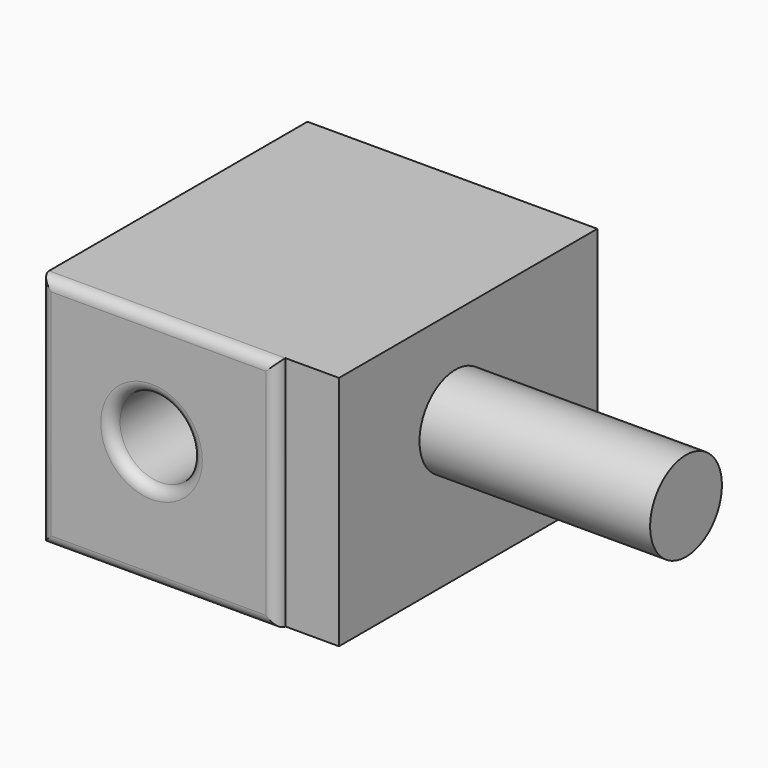
from build123d import *

# Parameters (mm, degrees)
F0_W     = 111.8744499981
F0_H     = 111.8744499981
F0_R     = 18.9654871471
F1_DEPTH = 157.988
F2_R     = 5.08
F3_DEPTH = 25.4
F4_R     = 21.242968454
F5_DEPTH = 109.22


with BuildPart() as f1:
    # F0 (on Front) → F1 (new body)
    with BuildSketch(Plane.XZ):
        with Locations((3.3725146204, -3.8376878947)):
            Rectangle(F0_W, F0_H)
        Circle(F0_R, mode=Mode.SUBTRACT)
    extrude(amount=F1_DEPTH)

    # F2
    f2_edges = [f1.edges().sort_by_distance(p)[0] for p in [
        (3.372515, -157.988, 52.099537),
        (-52.56471, -157.988, -3.837688),
        (3.372515, -157.988, -59.774913),
        (59.30974, -157.988, -3.837688),
        (-18.965487, -157.988, 0),
    ]]
    fillet(f2_edges, radius=F2_R)

    # F3 (add): a face of the model
    f3_faces = [f1.faces().sort_by_distance(p)[0] for p in [
        (59.3097396195, -76.454, -3.8376878947),
    ]]
    extrude(f3_faces, amount=F3_DEPTH)

    # F4 (on face) → F5 (join)
    with BuildSketch(Plane.YZ.offset(84.7097396195)):
        with Locations((-84.0359479189, 6.2909969129)):
            Circle(F4_R)
    extrude(amount=F5_DEPTH)


solid = f1.part
